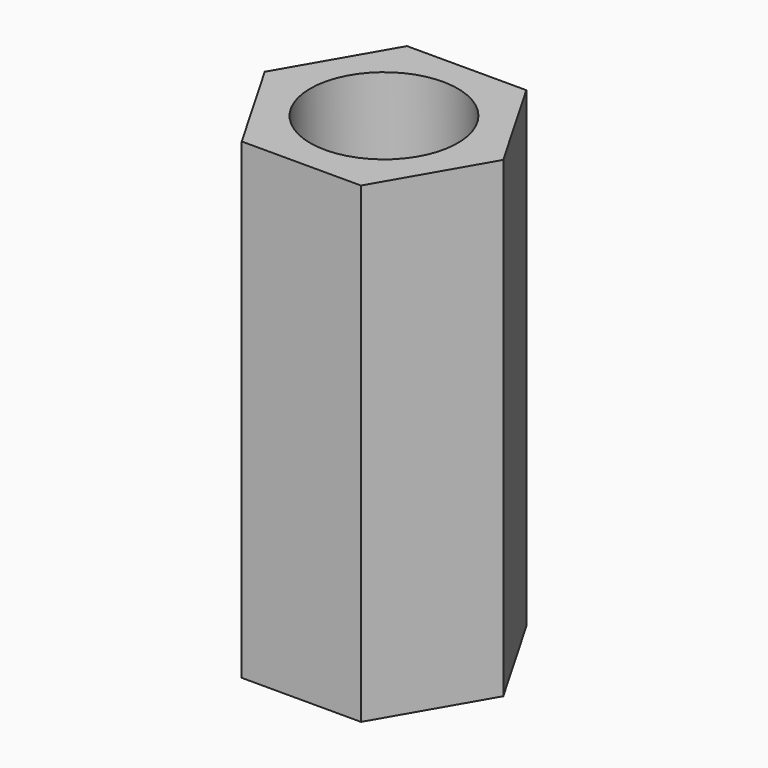
from build123d import *

# Parameters (mm, degrees)
F1_DEPTH = 50.8
F2_D     = 15.875
F2_DEPTH = 15.875
F2_TIP   = 4.7693311635
F4_D     = 15.875
F4_DEPTH = 15.875
F4_TIP   = 4.7693311635


with BuildPart() as f1:
    # F0 (on Top) → F1 (new body)
    with BuildSketch(Plane.XY):
        Polygon((6.4158048664, 11.1125), (-6.4158048664, 11.1125), (-12.8316097327, 0), (-6.4158048664, -11.1125), (6.4158048664, -11.1125), (12.8316097327, 0), align=None)
    extrude(amount=F1_DEPTH)

    # F2
    with Locations(Plane(origin=(0, 0, 0), x_dir=(1, 0, 0), z_dir=(0, 0, -1))):
        with Locations((0, 0)):
            Hole(F2_D / 2, depth=F2_DEPTH)
            with Locations((0, 0, -(F2_DEPTH + F2_TIP / 2))):  # 118° drill point
                Cone(0, F2_D / 2, F2_TIP, mode=Mode.SUBTRACT)

    # F4
    with Locations(Plane.XY.offset(50.8)):
        with Locations((0, 0)):
            Hole(F4_D / 2, depth=F4_DEPTH)
            with Locations((0, 0, -(F4_DEPTH + F4_TIP / 2))):  # 118° drill point
                Cone(0, F4_D / 2, F4_TIP, mode=Mode.SUBTRACT)


solid = f1.part
